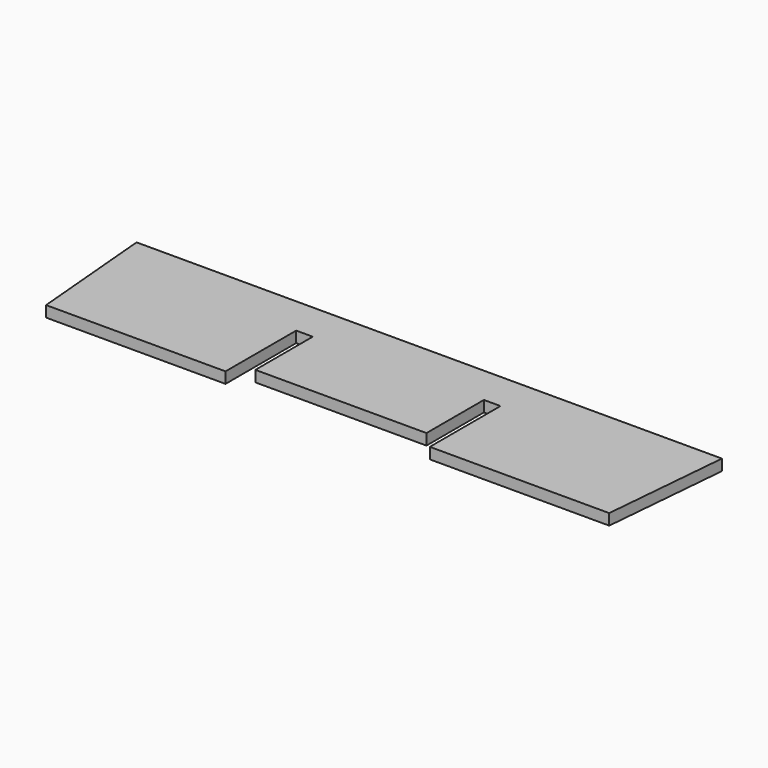
from build123d import *

# Parameters (mm, degrees)
F1_DEPTH = 1


with BuildPart() as f1:
    # F0 (on Top) → F1 (new body)
    with BuildSketch(Plane.XY):
        Polygon((-25.5, -5.75), (-25.5, 5.75), (-26.50612, 5.75), align=None)
        Polygon((25.5, 5.75), (-25.5, 5.75), (-25.5, -5.75), (-9.25, -5.75), (-9.25, 2.25), (-7.75, 2.25), (-7.75, -4.25), (7.75, -4.25), (7.75, 2.25), (9.25, 2.25), (9.25, -5.75), (25.5, -5.75), align=None)
        Polygon((26.50612, 5.75), (25.5, 5.75), (25.5, -5.75), align=None)
    extrude(amount=F1_DEPTH)


solid = f1.part
